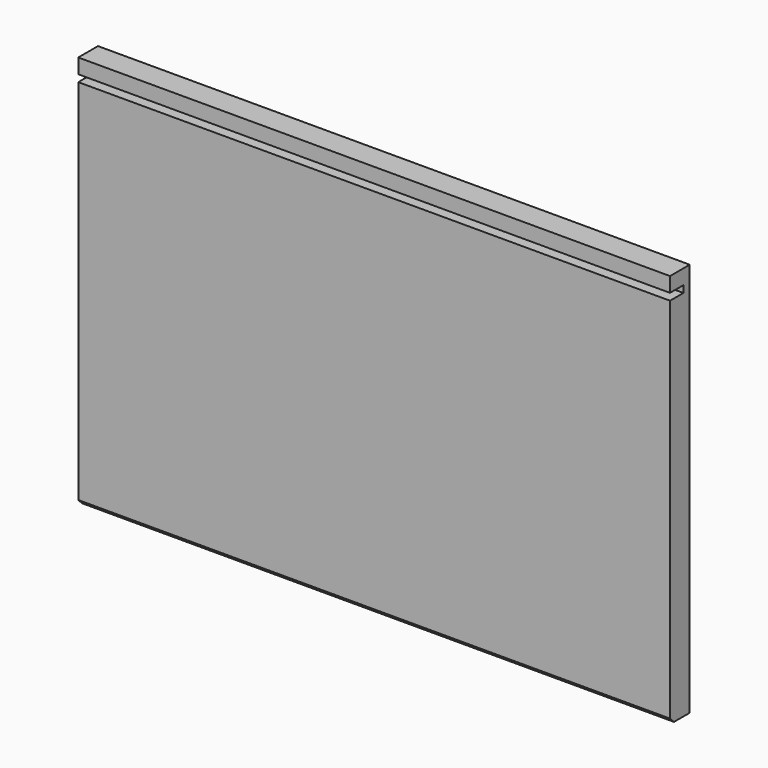
from build123d import *

# Parameters (mm, degrees)
F0_W     = 600
F0_H     = 400
F1_DEPTH = 25
F2_SIZE  = 5
F3_W     = 36.971099
F3_H     = 7
F4_DEPTH = 1000


with BuildPart() as f1:
    # F0 (on Front) → F1 (new body)
    with BuildSketch(Plane.XZ):
        with Locations((-14921.775502, 182.368167)):
            Rectangle(F0_W, F0_H)
    extrude(amount=F1_DEPTH)

    # F2
    f2_edges = [f1.edges().sort_by_distance(p)[0] for p in [
        (-14921.775502, -25, -17.631833),
    ]]
    chamfer(f2_edges, length=F2_SIZE)

    # F3 (on face) → F4 (cut)
    with BuildSketch(Plane(origin=(-15221.775502, 0, 0), x_dir=(0, -1, 0), z_dir=(-1, 0, 0))):
        with Locations((26.485549, 363.868167)):
            Rectangle(F3_W, F3_H)
    extrude(amount=-F4_DEPTH, mode=Mode.SUBTRACT)


solid = f1.part
